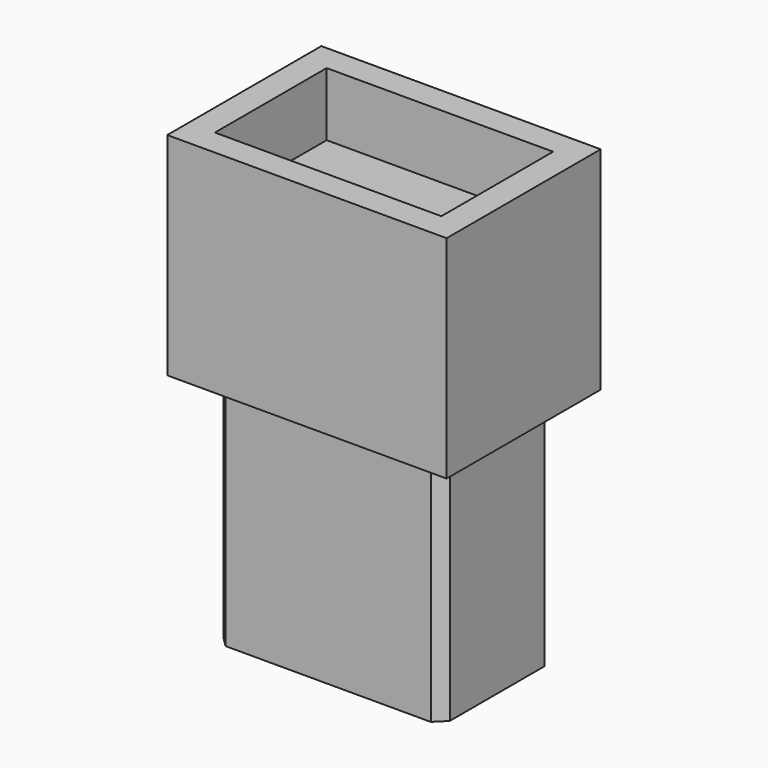
from build123d import *

# Parameters (mm, degrees)
F0_W     = 13.589
F0_H     = 8.382
F0_R     = 2.159
F1_DEPTH = 9.144
F2_W     = 13.589
F2_H     = 8.382
F2_R     = 2.159
F2_R_2   = 1.143
F3_DEPTH = 5.08
F4_W     = 16.764
F4_H     = 11.557
F4_W_2   = 13.589
F4_H_2   = 8.382
F4_R     = 1.143
F5_DEPTH = 8.89
F6_SIZE  = 0.635
F7_W     = 16.764
F7_H     = 11.557
F7_W_2   = 13.589
F7_H_2   = 8.382
F8_DEPTH = 3.81


with BuildPart() as f1:
    # F0 (on Top) → F1 (new body)
    with BuildSketch(Plane.XY):
        Rectangle(F0_W, F0_H)
        with Locations((-3.81, 0)):
            Circle(F0_R, mode=Mode.SUBTRACT)
        with Locations((3.81, 0)):
            Circle(F0_R, mode=Mode.SUBTRACT)
    extrude(amount=F1_DEPTH)

    # F2 (on face) → F3 (join)
    with BuildSketch(Plane.XY.offset(9.144)):
        Rectangle(F2_W, F2_H)
        with Locations((-3.81, 0)):
            Circle(F2_R, mode=Mode.SUBTRACT)
        with Locations((3.81, 0)):
            Circle(F2_R, mode=Mode.SUBTRACT)
        with Locations((-3.81, 0)):
            Circle(F2_R)
        with Locations((-3.81, 0)):
            Circle(F2_R_2, mode=Mode.SUBTRACT)
        with Locations((3.81, 0)):
            Circle(F2_R)
        with Locations((3.81, 0)):
            Circle(F2_R_2, mode=Mode.SUBTRACT)
    extrude(amount=F3_DEPTH)

    # F4 (on face) → F5 (join)
    with BuildSketch(Plane.XY.offset(14.224)):
        Rectangle(F4_W, F4_H)
        Rectangle(F4_W_2, F4_H_2, mode=Mode.SUBTRACT)
        Rectangle(F4_W_2, F4_H_2)
        with Locations((-3.81, 0)):
            Circle(F4_R, mode=Mode.SUBTRACT)
        with Locations((3.81, 0)):
            Circle(F4_R, mode=Mode.SUBTRACT)
    extrude(amount=F5_DEPTH)

    # F6
    f6_edges = [f1.edges().sort_by_distance(p)[0] for p in [
        (-6.7945, 4.191, 7.112),
        (-6.7945, -4.191, 7.112),
        (6.7945, 4.191, 7.112),
        (6.7945, -4.191, 7.112),
    ]]
    chamfer(f6_edges, length=F6_SIZE)

    # F7 (on face) → F8 (join)
    with BuildSketch(Plane.XY.offset(23.114)):
        Rectangle(F7_W, F7_H)
        Rectangle(F7_W_2, F7_H_2, mode=Mode.SUBTRACT)
    extrude(amount=F8_DEPTH)


solid = f1.part
